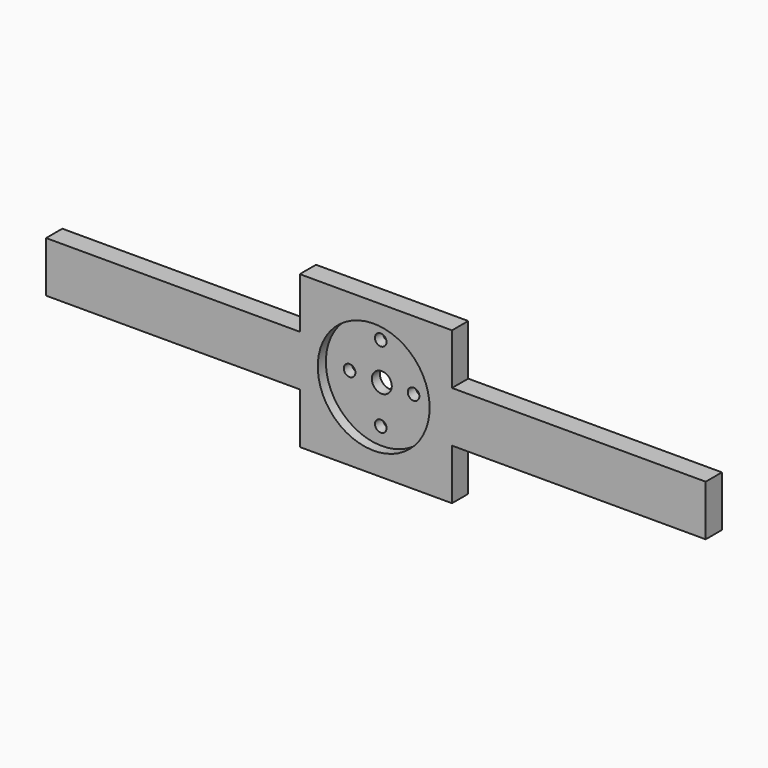
from build123d import *

# Parameters (mm, degrees)
F0_W     = 63.5
F0_H     = 12.7
F0_W_2   = 38.1
F1_DEPTH = 5.08
F2_R     = 14
F3_DEPTH = 2.54
F4_R     = 1.45
F4_R_2   = 2.5
F5_DEPTH = 25.4


with BuildPart() as f1:
    # F0 (on Front) → F1 (new body)
    with BuildSketch(Plane.XZ):
        with Locations((-18.9156212242, -3.6535147662)):
            Rectangle(F0_W, F0_H)
        with Locations((31.8843787758, 9.0464852338)):
            Rectangle(F0_W_2, F0_H)
        with Locations((31.8843787758, -3.6535147662)):
            Rectangle(F0_W_2, F0_H)
        with Locations((82.6843787758, -3.6535147662)):
            Rectangle(F0_W, F0_H)
        with Locations((31.8843787758, -16.3535147662)):
            Rectangle(F0_W_2, F0_H)
    extrude(amount=F1_DEPTH)

    # F2 (on face) → F3 (cut)
    with BuildSketch(Plane.XZ.offset(5.08)):
        with Locations((31.3334800303, -3.4903693013)):
            Circle(F2_R)
    extrude(amount=-F3_DEPTH, mode=Mode.SUBTRACT)

    # F4 (on face) → F5 (cut)
    with BuildSketch(Plane.XZ.offset(2.54)):
        with Locations((39.2787821442, -3.4903693013)):
            Circle(F4_R)
        with Locations((23.2787821442, -3.4903693013)):
            Circle(F4_R)
        with Locations((31.0685478124, -13.1993463289)):
            Circle(F4_R)
        with Locations((31.0685478124, 5.8006536711)):
            Circle(F4_R)
        with Locations((31.3334800303, -3.4903693013)):
            Circle(F4_R_2)
    extrude(amount=-F5_DEPTH, mode=Mode.SUBTRACT)


solid = f1.part
